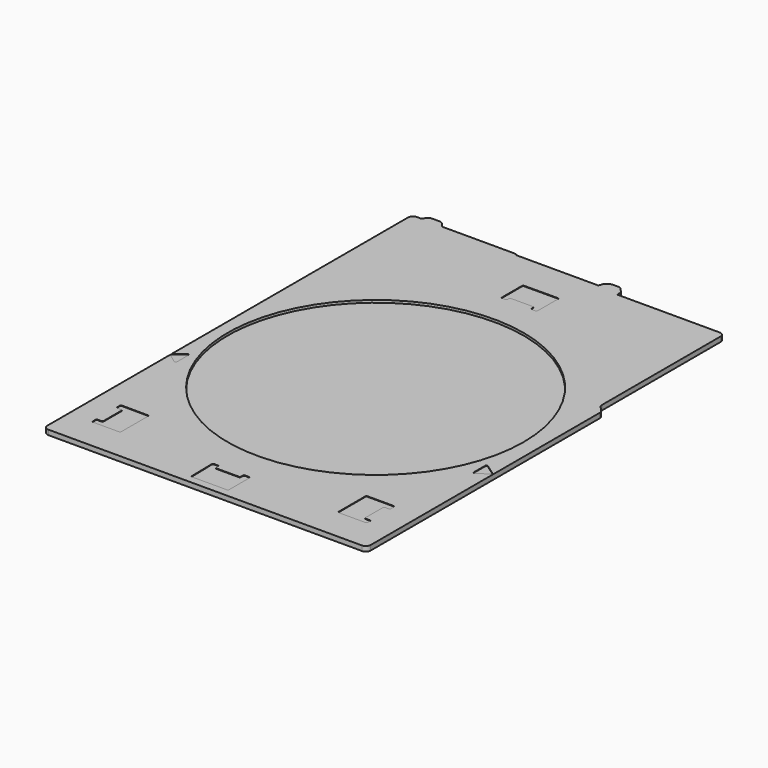
from build123d import *

# Parameters (mm, degrees)
F1_DEPTH = 1
F2_R     = 60.5
F3_DEPTH = 1
F5_DEPTH = 0.2


with BuildPart() as f1:
    # F0 (on Top) → F1 (new body)
    with BuildSketch(Plane.XY):
        with BuildLine():
            Line((-53.027665, 124.93312), (-54.98666, 124.93312))
            ThreePointArc((-54.98666, 124.93312), (-56.400873, 124.347334), (-56.98666, 122.93312))
            Line((-56.98666, 122.93312), (-56.98666, -61.30676))
            ThreePointArc((-56.98666, -61.30676), (-56.400873, -62.720974), (-54.98666, -63.30676))
            Line((-54.98666, -63.30676), (73.152434, -63.30676))
            ThreePointArc((73.152434, -63.30676), (74.566648, -62.720974), (75.152434, -61.30676))
            Line((75.152434, -61.30676), (75.152434, 55.722097))
            ThreePointArc((75.152434, 55.722097), (75.019783, 56.438345), (74.639423, 57.059581))
            Line((74.639423, 57.059581), (72.826351, 59.075319))
            ThreePointArc((72.826351, 59.075319), (72.445992, 59.696556), (72.31334, 60.412804))
            Line((72.31334, 60.412804), (72.31334, 121.015311))
            ThreePointArc((72.31334, 121.015311), (71.727554, 122.429524), (70.31334, 123.015311))
            Line((70.31334, 123.015311), (28.457738, 123.015311))
            Line((28.457738, 123.015311), (28.457738, 124.242901))
            ThreePointArc((28.457738, 124.242901), (28.308866, 125.000085), (27.884411, 125.644545))
            Line((27.884411, 125.644545), (26.658998, 126.89184))
            ThreePointArc((26.658998, 126.89184), (26.00586, 127.334551), (25.232325, 127.490196))
            Line((25.232325, 127.490196), (23.160365, 127.490196))
            ThreePointArc((23.160365, 127.490196), (22.59987, 127.410052), (22.084295, 127.176042))
            Line((22.084295, 127.176042), (21.135774, 126.570603))
            ThreePointArc((21.135774, 126.570603), (20.657619, 126.143481), (20.339185, 125.587005))
            Line((20.339185, 125.587005), (19.806307, 124.165993))
            Line((19.806307, 124.165993), (-13.606119, 124.165993))
            Line((-13.606119, 124.165993), (-13.776735, 124.306503))
            ThreePointArc((-13.776735, 124.306503), (-14.372773, 124.645163), (-15.04816, 124.762651))
            Line((-15.04816, 124.762651), (-44.504093, 124.762651))
            Line((-44.504093, 124.762651), (-45.951107, 126.450838))
            ThreePointArc((-45.951107, 126.450838), (-46.633907, 126.966283), (-47.469622, 127.149258))
            Line((-47.469622, 127.149258), (-50.639777, 127.149258))
            ThreePointArc((-50.639777, 127.149258), (-51.665353, 126.866289), (-52.400722, 126.097452))
            Line((-52.400722, 126.097452), (-53.027665, 124.93312))
        make_face()
    extrude(amount=F1_DEPTH)

    # F2 (on face) → F3 (join)
    with BuildSketch(Plane.XY.offset(1)):
        with BuildLine():
            Line((-15.04816, 124.762651), (-44.504093, 124.762651))
            Line((-44.504093, 124.762651), (-45.951107, 126.450838))
            ThreePointArc((-45.951107, 126.450838), (-46.633907, 126.966283), (-47.469622, 127.149258))
            Line((-47.469622, 127.149258), (-50.639777, 127.149258))
            ThreePointArc((-50.639777, 127.149258), (-51.665353, 126.866289), (-52.400722, 126.097452))
            Line((-52.400722, 126.097452), (-53.027665, 124.93312))
            Line((-53.027665, 124.93312), (-54.98666, 124.93312))
            ThreePointArc((-54.98666, 124.93312), (-56.400873, 124.347334), (-56.98666, 122.93312))
            Line((-56.98666, 122.93312), (-56.98666, -61.30676))
            ThreePointArc((-56.98666, -61.30676), (-56.400873, -62.720974), (-54.98666, -63.30676))
            Line((-54.98666, -63.30676), (73.152434, -63.30676))
            ThreePointArc((73.152434, -63.30676), (74.566648, -62.720974), (75.152434, -61.30676))
            Line((75.152434, -61.30676), (75.152434, 55.722097))
            ThreePointArc((75.152434, 55.722097), (75.019783, 56.438345), (74.639423, 57.059581))
            Line((74.639423, 57.059581), (72.826351, 59.075319))
            ThreePointArc((72.826351, 59.075319), (72.445992, 59.696556), (72.31334, 60.412804))
            Line((72.31334, 60.412804), (72.31334, 121.015311))
            ThreePointArc((72.31334, 121.015311), (71.727554, 122.429524), (70.31334, 123.015311))
            Line((70.31334, 123.015311), (28.457738, 123.015311))
            Line((28.457738, 123.015311), (28.457738, 124.242901))
            ThreePointArc((28.457738, 124.242901), (28.308866, 125.000085), (27.884411, 125.644545))
            Line((27.884411, 125.644545), (26.658998, 126.89184))
            ThreePointArc((26.658998, 126.89184), (26.00586, 127.334551), (25.232325, 127.490196))
            Line((25.232325, 127.490196), (23.160365, 127.490196))
            ThreePointArc((23.160365, 127.490196), (22.59987, 127.410052), (22.084295, 127.176042))
            Line((22.084295, 127.176042), (21.135774, 126.570603))
            ThreePointArc((21.135774, 126.570603), (20.657619, 126.143481), (20.339185, 125.587005))
            Line((20.339185, 125.587005), (19.806307, 124.165993))
            Line((19.806307, 124.165993), (-13.606119, 124.165993))
            Line((-13.606119, 124.165993), (-13.776735, 124.306503))
            ThreePointArc((-13.776735, 124.306503), (-14.372773, 124.645163), (-15.04816, 124.762651))
        make_face()
        with Locations((8.348013, 24.711499)):
            Circle(F2_R, mode=Mode.SUBTRACT)
    extrude(amount=F3_DEPTH)

    # F4 (on face) → F5 (cut)
    with BuildSketch(Plane.XY.offset(2)):
        with BuildLine():
            ThreePointArc((-47.045743, -35.636087), (-47.40188, -35.781107), (-47.549743, -36.136071))
            Line((-47.549743, -36.136071), (-47.549743, -37.502152))
            ThreePointArc((-47.549743, -37.502152), (-47.403297, -37.855705), (-47.049743, -38.002152))
            Line((-47.049743, -38.002152), (-45.490037, -38.002152))
            ThreePointArc((-45.490037, -38.002152), (-45.136483, -38.148599), (-44.990037, -38.502152))
            Line((-44.990037, -38.502152), (-44.990037, -47.598776))
            ThreePointArc((-44.990037, -47.598776), (-45.136483, -47.95233), (-45.490037, -48.098776))
            Line((-45.490037, -48.098776), (-47.002343, -48.098776))
            ThreePointArc((-47.002343, -48.098776), (-47.355896, -48.245223), (-47.502343, -48.598776))
            Line((-47.502343, -48.598776), (-47.502343, -49.893432))
            ThreePointArc((-47.502343, -49.893432), (-47.355896, -50.246986), (-47.002343, -50.393432))
            Line((-47.002343, -50.393432), (-36.445047, -50.393432))
            ThreePointArc((-36.445047, -50.393432), (-36.091493, -50.246986), (-35.945047, -49.893432))
            Line((-35.945047, -49.893432), (-35.945047, -36.220909))
            ThreePointArc((-35.945047, -36.220909), (-36.090082, -35.868773), (-36.441047, -35.720925))
            Line((-36.441047, -35.720925), (-47.045743, -35.636087))
        make_face()
        with BuildLine():
            Line((2.716971, -48.799027), (1.096801, -48.799027))
            ThreePointArc((1.096801, -48.799027), (0.739559, -48.949201), (0.596911, -49.309514))
            Line((0.596911, -49.309514), (0.815092, -59.709521))
            ThreePointArc((0.815092, -59.709521), (0.965156, -60.056275), (1.314982, -60.199033))
            Line((1.314982, -60.199033), (15.472221, -60.199033))
            ThreePointArc((15.472221, -60.199033), (15.825775, -60.052587), (15.972221, -59.699033))
            Line((15.972221, -59.699033), (15.972221, -49.299027))
            ThreePointArc((15.972221, -49.299027), (15.825775, -48.945473), (15.472221, -48.799027))
            Line((15.472221, -48.799027), (13.761731, -48.799027))
            ThreePointArc((13.761731, -48.799027), (13.408177, -48.945473), (13.261731, -49.299027))
            Line((13.261731, -49.299027), (13.261731, -50.212314))
            ThreePointArc((13.261731, -50.212314), (13.115284, -50.565867), (12.761731, -50.712314))
            Line((12.761731, -50.712314), (3.716971, -50.712314))
            ThreePointArc((3.716971, -50.712314), (3.363418, -50.565867), (3.216971, -50.212314))
            Line((3.216971, -50.212314), (3.216971, -49.299027))
            ThreePointArc((3.216971, -49.299027), (3.070525, -48.945473), (2.716971, -48.799027))
        make_face()
        with BuildLine():
            ThreePointArc((53.303006, -35.632055), (52.949453, -35.778502), (52.803006, -36.132055))
            Line((52.803006, -36.132055), (52.803006, -49.733994))
            ThreePointArc((52.803006, -49.733994), (52.949453, -50.087547), (53.303006, -50.233994))
            Line((53.303006, -50.233994), (64.16683, -50.233994))
            ThreePointArc((64.16683, -50.233994), (64.520383, -50.087547), (64.66683, -49.733994))
            Line((64.66683, -49.733994), (64.66683, -48.598776))
            ThreePointArc((64.66683, -48.598776), (64.520383, -48.245223), (64.16683, -48.098776))
            Line((64.16683, -48.098776), (62.550562, -48.098776))
            ThreePointArc((62.550562, -48.098776), (62.197009, -47.95233), (62.050562, -47.598776))
            Line((62.050562, -47.598776), (62.050562, -38.696225))
            ThreePointArc((62.050562, -38.696225), (62.197009, -38.342671), (62.550562, -38.196225))
            Line((62.550562, -38.196225), (64.021894, -38.196225))
            ThreePointArc((64.021894, -38.196225), (64.375447, -38.049778), (64.521894, -37.696225))
            Line((64.521894, -37.696225), (64.521894, -36.132055))
            ThreePointArc((64.521894, -36.132055), (64.375447, -35.778502), (64.021894, -35.632055))
            Line((64.021894, -35.632055), (53.303006, -35.632055))
        make_face()
        with BuildLine():
            ThreePointArc((70.248886, 4.685054), (69.731416, 4.718573), (69.462516, 4.275186))
            Line((69.462516, 4.275186), (69.462516, -1.483415))
            ThreePointArc((69.462516, -1.483415), (69.728887, -1.925475), (70.244185, -1.896529))
            Line((70.244185, -1.896529), (74.415556, 0.94759))
            ThreePointArc((74.415556, 0.94759), (74.63388, 1.357847), (74.420258, 1.770572))
            Line((74.420258, 1.770572), (70.248886, 4.685054))
        make_face()
        with BuildLine():
            Line((-53.041739, 5.185619), (-56.952399, 2.209391))
            ThreePointArc((-56.952399, 2.209391), (-57.14958, 1.808048), (-56.946856, 1.409475))
            Line((-56.946856, 1.409475), (-53.036195, -1.482046))
            ThreePointArc((-53.036195, -1.482046), (-52.5138, -1.526457), (-52.238931, -1.080008))
            Line((-52.238931, -1.080008), (-52.238931, 4.78774))
            ThreePointArc((-52.238931, 4.78774), (-52.516899, 5.235738), (-53.041739, 5.185619))
        make_face()
        with BuildLine():
            ThreePointArc((1.466782, 109.224265), (1.114987, 109.076864), (0.969499, 108.724273))
            Line((0.969499, 108.724273), (0.969499, 98.56072))
            ThreePointArc((0.969499, 98.56072), (1.115946, 98.207166), (1.469499, 98.06072))
            Line((1.469499, 98.06072), (2.701668, 98.06072))
            ThreePointArc((2.701668, 98.06072), (3.055221, 98.207166), (3.201668, 98.56072))
            Line((3.201668, 98.56072), (3.201668, 99.234843))
            ThreePointArc((3.201668, 99.234843), (3.348114, 99.588396), (3.701668, 99.734843))
            Line((3.701668, 99.734843), (12.666707, 99.734843))
            ThreePointArc((12.666707, 99.734843), (13.02026, 99.588396), (13.166707, 99.234843))
            Line((13.166707, 99.234843), (13.166707, 98.401277))
            ThreePointArc((13.166707, 98.401277), (13.313154, 98.047724), (13.666707, 97.901277))
            Line((13.666707, 97.901277), (15.138037, 97.901277))
            ThreePointArc((15.138037, 97.901277), (15.49159, 98.047724), (15.638037, 98.401277))
            Line((15.638037, 98.401277), (15.638037, 108.798559))
            ThreePointArc((15.638037, 108.798559), (15.490628, 109.153072), (15.135319, 109.298552))
            Line((15.135319, 109.298552), (1.466782, 109.224265))
        make_face()
    extrude(amount=-F5_DEPTH, mode=Mode.SUBTRACT)


solid = f1.part
